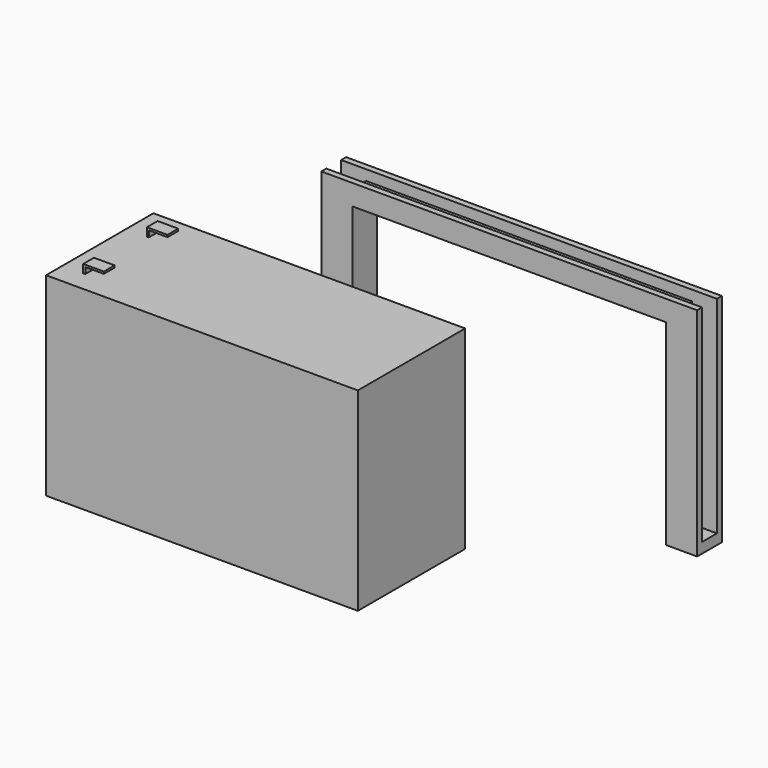
from build123d import *

# Parameters (mm, degrees)
F0_W      = 151
F0_H      = 65
F1_DEPTH  = 94
F2_W      = 1
F2_H      = 6.5
F3_DEPTH  = 3
F4_W      = 10
F4_H      = 6.5
F5_DEPTH  = 1
F6_W      = 10
F6_H      = 6.5
F7_DEPTH  = 1
F8_W      = 15
F8_H      = 15
F8_R      = 2.1
F9_DEPTH  = 5
F11_DEPTH = 90
F13_DEPTH = 90
F15_DEPTH = 5
F16_W     = 182
F16_H     = 3
F17_DEPTH = 5


with BuildPart() as f1:
    # F0 (on Top) → F1 (new body)
    with BuildSketch(Plane.XY):
        with Locations((-28.925121, -17.65754)):
            Rectangle(F0_W, F0_H)
    extrude(amount=F1_DEPTH)

    # F2 (on face) → F3 (join)
    with BuildSketch(Plane.XY.offset(94)):
        with Locations((-93.925121, -36.90754)):
            Rectangle(F2_W, F2_H)
        with Locations((-93.925121, 1.59246)):
            Rectangle(F2_W, F2_H)
    extrude(amount=F3_DEPTH)

    # F4 (on face) → F5 (join)
    with BuildSketch(Plane.XY.offset(97)):
        with Locations((-89.425121, -36.90754)):
            Rectangle(F4_W, F4_H)
    extrude(amount=F5_DEPTH)

    # F6 (on face) → F7 (join)
    with BuildSketch(Plane.XY.offset(97)):
        with Locations((-89.425121, 1.59246)):
            Rectangle(F6_W, F6_H)
    extrude(amount=F7_DEPTH)


with BuildPart() as f9:
    # F8 (on Top) → F9 (new body)
    with BuildSketch(Plane.XY):
        with Locations((-55.52233, 72.242535)):
            Rectangle(F8_W, F8_H)
        with Locations((-55.52233, 72.242535)):
            Circle(F8_R, mode=Mode.SUBTRACT)
        with Locations((111.47767, 72.242535)):
            Rectangle(F8_W, F8_H)
        with Locations((111.47767, 72.242535)):
            Circle(F8_R, mode=Mode.SUBTRACT)
    extrude(amount=F9_DEPTH)

    # F10 (on face) → F11 (join)
    with BuildSketch(Plane.XY.offset(5)):
        Polygon((-48.02233, 79.742535), (-63.02233, 79.742535), (-63.02233, 76.742535), (-51.02233, 76.742535), (-51.02233, 67.742535), (-63.02233, 67.742535), (-63.02233, 64.742535), (-48.02233, 64.742535), align=None)
    extrude(amount=F11_DEPTH)

    # F12 (on face) → F13 (join)
    with BuildSketch(Plane.XY.offset(5)):
        Polygon((103.97767, 64.742535), (118.97767, 64.742535), (118.97767, 67.742535), (106.97767, 67.742535), (106.97767, 76.742535), (118.97767, 76.742535), (118.97767, 79.742535), (103.97767, 79.742535), align=None)
    extrude(amount=F13_DEPTH)

    # F14 (on face) → F15 (join)
    with BuildSketch(Plane.XY.offset(95)):
        Polygon((103.97767, 79.742535), (-48.02233, 79.742535), (-63.02233, 79.742535), (-63.02233, 76.742535), (-51.02233, 76.742535), (-51.02233, 67.742535), (-63.02233, 67.742535), (-63.02233, 64.742535), (-48.02233, 64.742535), (103.97767, 64.742535), (118.97767, 64.742535), (118.97767, 67.742535), (106.97767, 67.742535), (106.97767, 76.742535), (118.97767, 76.742535), (118.97767, 79.742535), align=None)
    extrude(amount=F15_DEPTH)

    # F16 (on face) → F17 (join)
    with BuildSketch(Plane.XY.offset(100)):
        with Locations((27.97767, 78.242535)):
            Rectangle(F16_W, F16_H)
        with Locations((27.97767, 66.242535)):
            Rectangle(F16_W, F16_H)
    extrude(amount=F17_DEPTH)


solid = Compound([f1.part, f9.part])
